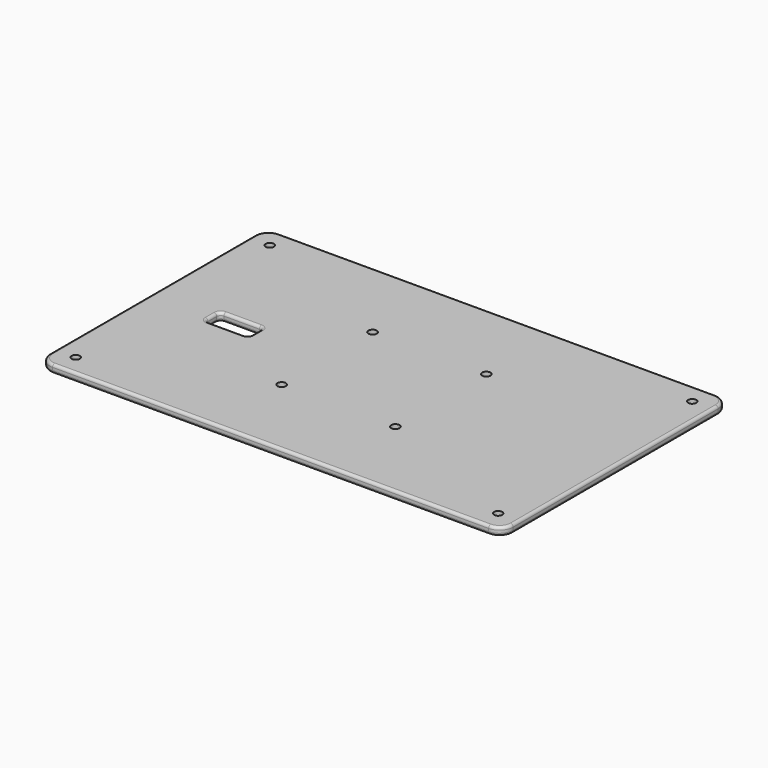
from build123d import *

# Parameters (mm, degrees)
F0_W     = 170
F0_H     = 104
F0_R     = 1.5
F0_R_2   = 1.55
F0_W_2   = 16
F0_H_2   = 7
F1_DEPTH = 3
F2_R     = 5
F3_R     = 1.5
F4_R     = 1


with BuildPart() as f1:
    # F0 (on Top) → F1 (new body)
    with BuildSketch(Plane.XY):
        Rectangle(F0_W, F0_H)
        with Locations((-77.5, -44.5)):
            Circle(F0_R, mode=Mode.SUBTRACT)
        with Locations((-20.85965, -20.85965)):
            Circle(F0_R_2, mode=Mode.SUBTRACT)
        with Locations((77.5, -44.5)):
            Circle(F0_R, mode=Mode.SUBTRACT)
        with Locations((20.85965, -20.85965)):
            Circle(F0_R_2, mode=Mode.SUBTRACT)
        with Locations((-55, 0)):
            Rectangle(F0_W_2, F0_H_2, mode=Mode.SUBTRACT)
        with Locations((-20.85965, 20.85965)):
            Circle(F0_R_2, mode=Mode.SUBTRACT)
        with Locations((-77.5, 44.5)):
            Circle(F0_R, mode=Mode.SUBTRACT)
        with Locations((20.85965, 20.85965)):
            Circle(F0_R_2, mode=Mode.SUBTRACT)
        with Locations((77.5, 44.5)):
            Circle(F0_R, mode=Mode.SUBTRACT)
    extrude(amount=F1_DEPTH)

    # F2
    f2_edges = [f1.edges().sort_by_distance(p)[0] for p in [
        (-85, -52, 1.5),
        (-85, 52, 1.5),
        (85, 52, 1.5),
        (85, -52, 1.5),
    ]]
    fillet(f2_edges, radius=F2_R)

    # F3
    f3_edges = [f1.edges().sort_by_distance(p)[0] for p in [
        (-47, 3.5, 1.5),
        (-47, -3.5, 1.5),
        (-63, -3.5, 1.5),
        (-63, 3.5, 1.5),
    ]]
    fillet(f3_edges, radius=F3_R)

    # F4
    f4_edges = [f1.edges().sort_by_distance(p)[0] for p in [
        (0, 52, 3),
        (0, 52, 0),
        (-55, -3.5, 3),
        (-55, 3.5, 0),
    ]]
    fillet(f4_edges, radius=F4_R)


solid = f1.part
